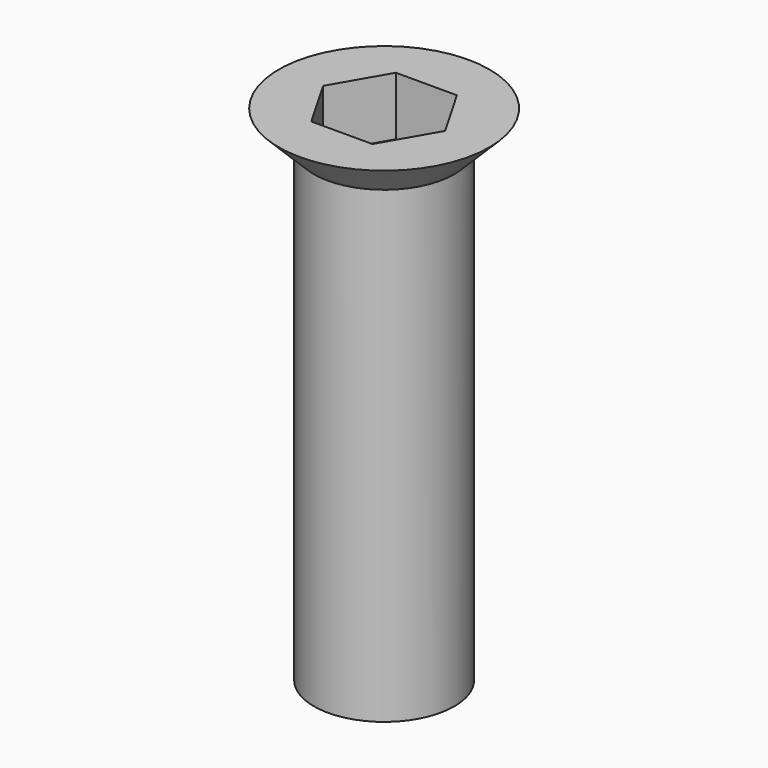
from build123d import *

# Parameters (mm, degrees)
F0_R     = 6
F1_DEPTH = 3
F1_TAPER = -45
F2_DEPTH = 40
F4_DEPTH = 5


with BuildPart() as f1:
    # F0 (on Top) → F1 (new body)
    with BuildSketch(Plane.XY):
        Circle(F0_R)
    extrude(amount=F1_DEPTH, taper=F1_TAPER)

    # F0 (on Top) → F2 (join)
    with BuildSketch(Plane.XY):
        Circle(F0_R)
    extrude(amount=-F2_DEPTH)

    # F3 (on face) → F4 (cut)
    with BuildSketch(Plane.XY.offset(3)):
        Polygon((2.6050036522, -4.5119986795), (5.2100073044, 0), (2.6050036522, 4.5119986795), (-2.6050036522, 4.5119986795), (-5.2100073044, 0), (-2.6050036522, -4.5119986795), align=None)
    extrude(amount=-F4_DEPTH, mode=Mode.SUBTRACT)


solid = f1.part
